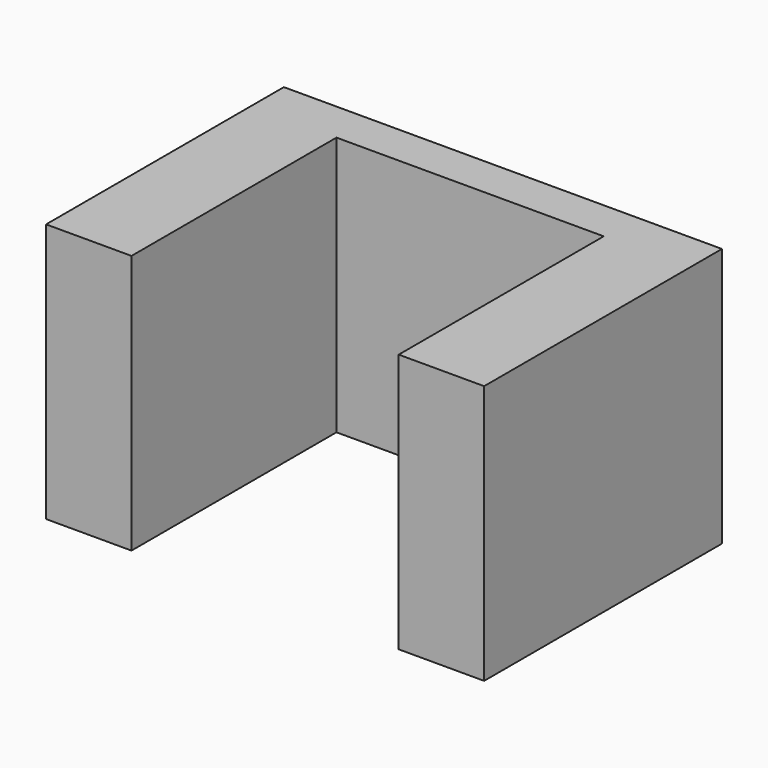
from build123d import *

# Parameters (mm, degrees)
F0_W     = 65.136822
F0_H     = 38.578641
F1_DEPTH = 6.096
F2_W     = 12.7
F2_H     = 38.578641
F3_DEPTH = 38.1


with BuildPart() as f1:
    # F0 (on Front) → F1 (new body)
    with BuildSketch(Plane.XZ):
        with Locations((-39.254515, 51.753187)):
            Rectangle(F0_W, F0_H)
    extrude(amount=F1_DEPTH)

    # F2 (on face) → F3 (join)
    with BuildSketch(Plane.XZ.offset(6.096)):
        with Locations((-65.472926, 51.753187)):
            Rectangle(F2_W, F2_H)
        with Locations((-13.036104, 51.753187)):
            Rectangle(F2_W, F2_H)
    extrude(amount=F3_DEPTH)


solid = f1.part
